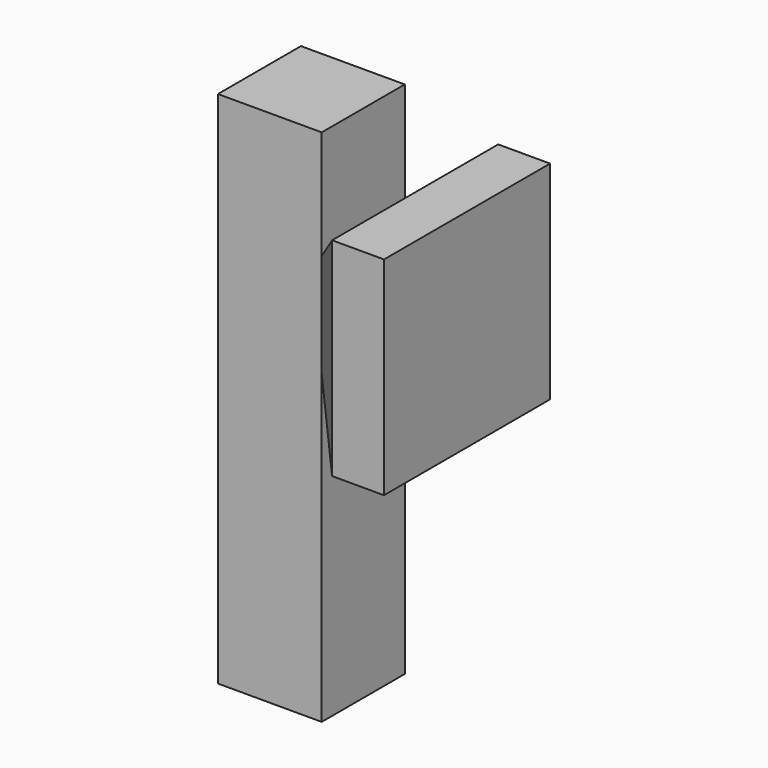
from build123d import *

# Parameters (mm, degrees)
F0_W     = 20
F0_H     = 20
F1_DEPTH = 100
F2_W     = 10
F2_H     = 40
F2_W_2   = 20
F3_DEPTH = 20
F4_SIZE  = 10


with BuildPart() as f1:
    # F0 (on Top) → F1 (new body)
    with BuildSketch(Plane.XY):
        Rectangle(F0_W, F0_H)
    extrude(amount=F1_DEPTH)


with BuildPart() as f3:
    # F2 (on face) → F3 (new body)
    with BuildSketch(Plane.YZ.offset(10)):
        with Locations((-15, 69.0170936286)):
            Rectangle(F2_W, F2_H)
        with Locations((0, 69.0170936286)):
            Rectangle(F2_W_2, F2_H)
        with Locations((15, 69.0170936286)):
            Rectangle(F2_W, F2_H)
    extrude(amount=F3_DEPTH)

    # F4
    f4_edges = [f3.edges().sort_by_distance(p)[0] for p in [
        (10, 0, 89.017094),
        (10, -20, 69.017094),
        (10, 0, 49.017094),
        (10, 20, 69.017094),
    ]]
    chamfer(f4_edges, length=F4_SIZE)


solid = Compound([f1.part, f3.part])
